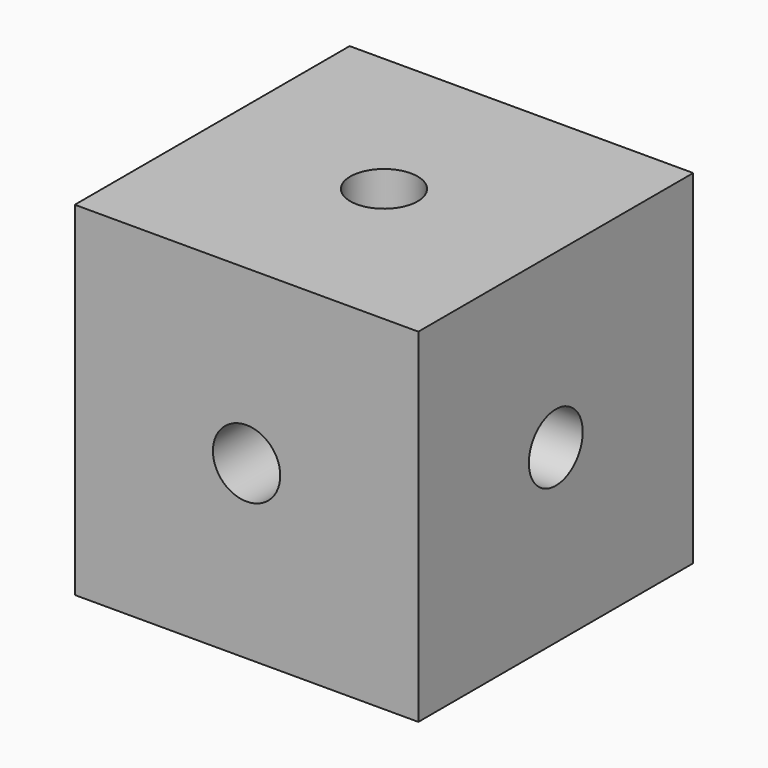
from build123d import *

# Parameters (mm, degrees)
F0_W     = 25.4
F0_H     = 25.4
F1_DEPTH = 25.4
F2_R     = 2.4892
F3_DEPTH = 25.4
F4_R     = 2.4892
F5_DEPTH = 25.4
F6_R     = 2.4892
F7_DEPTH = 25.4


with BuildPart() as f1:
    # F0 (on Top) → F1 (new body)
    with BuildSketch(Plane.XY):
        with Locations((12.7, 12.7)):
            Rectangle(F0_W, F0_H)
    extrude(amount=F1_DEPTH)

    # F2 (on face) → F3 (cut)
    with BuildSketch(Plane.XY.offset(25.4)):
        with Locations((12.7, 12.7)):
            Circle(F2_R)
    extrude(amount=-F3_DEPTH, mode=Mode.SUBTRACT)

    # F4 (on face) → F5 (cut)
    with BuildSketch(Plane.YZ.offset(25.4)):
        with Locations((12.7, 12.7)):
            Circle(F4_R)
    extrude(amount=-F5_DEPTH, mode=Mode.SUBTRACT)

    # F6 (on face) → F7 (cut)
    with BuildSketch(Plane.XZ):
        with Locations((12.7, 12.7)):
            Circle(F6_R)
    extrude(amount=-F7_DEPTH, mode=Mode.SUBTRACT)


solid = f1.part
